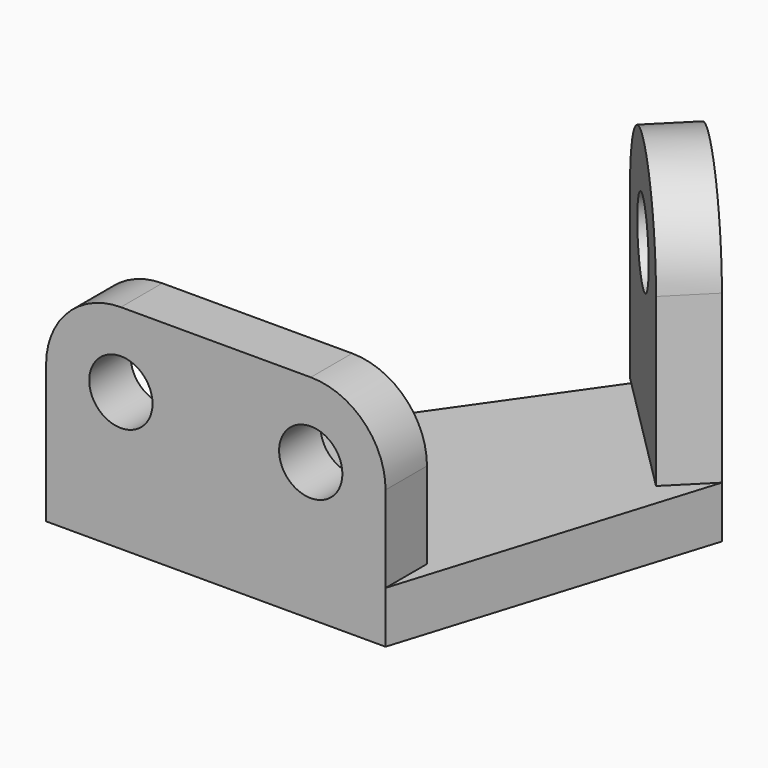
from build123d import *

# Parameters (mm, degrees)
F1_DEPTH = 9
F2_R     = 7
F3_DEPTH = 9
F4_R     = 5.5
F5_DEPTH = 9


with BuildPart() as f1:
    # F0 (on Top) → F1 (new body)
    with BuildSketch(Plane.XY):
        Polygon((52.686291501, 75.313708499), (0, 0), (59, 0), (75.313708499, 52.686291501), align=None)
    extrude(amount=F1_DEPTH)

    # F2 (on face) → F3 (join)
    with BuildSketch(Plane(origin=(64, 64, 0), x_dir=(-0.7071067812, 0.7071067812, 0), z_dir=(0.7071067812, 0.7071067812, 0))):
        with BuildLine():
            Line((-16, 38), (-16, 9))
            Line((-16, 9), (16, 9))
            Line((16, 9), (16, 38))
            ThreePointArc((16, 38), (0, 54), (-16, 38))
        make_face()
        with Locations((0, 38)):
            Circle(F2_R, mode=Mode.SUBTRACT)
    extrude(amount=-F3_DEPTH)

    # F4 (on face) → F5 (join)
    with BuildSketch(Plane.XZ):
        with BuildLine():
            Line((0, 24), (0, 9))
            Line((0, 9), (59, 9))
            Line((59, 9), (59, 24))
            ThreePointArc((59, 24), (55.1923881554, 33.1923881554), (46, 37))
            Line((46, 37), (13, 37))
            ThreePointArc((13, 37), (3.8076118446, 33.1923881554), (0, 24))
        make_face()
        with Locations((13, 24)):
            Circle(F4_R, mode=Mode.SUBTRACT)
        with Locations((46, 24)):
            Circle(F4_R, mode=Mode.SUBTRACT)
    extrude(amount=-F5_DEPTH)


solid = f1.part
